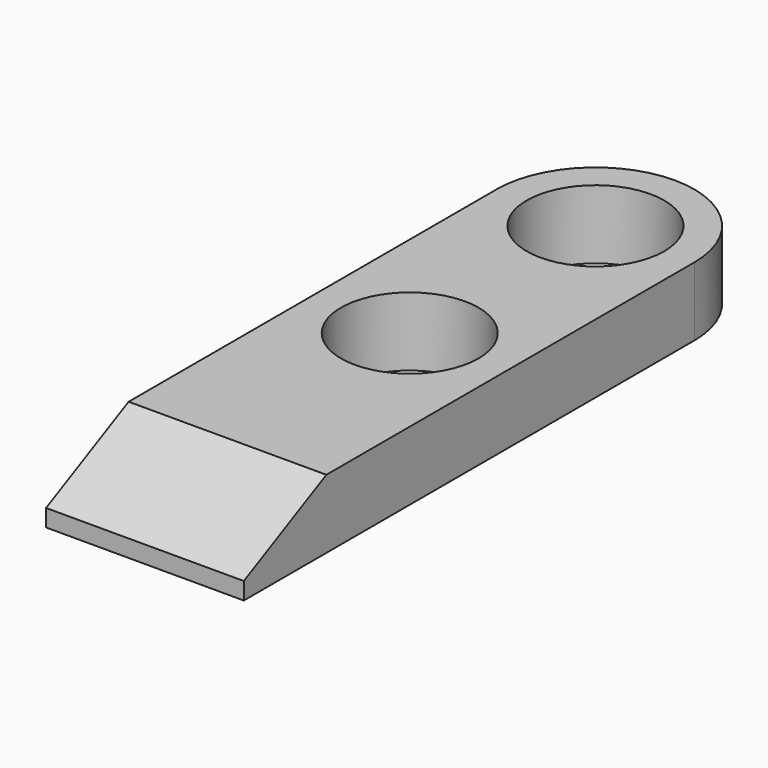
from build123d import *

# Parameters (mm, degrees)
F0_R     = 8
F1_DEPTH = 8
F3_DEPTH = 23.001


with BuildPart() as f1:
    # F0 (on Top) → F1 (new body)
    with BuildSketch(Plane.XY):
        with BuildLine():
            Line((-11.5, 27), (-11.5, -38.5))
            Line((-11.5, -38.5), (11.5, -38.5))
            Line((11.5, -38.5), (11.5, 27))
            ThreePointArc((11.5, 27), (0, 38.5), (-11.5, 27))
        make_face()
        Circle(F0_R, mode=Mode.SUBTRACT)
        with Locations((0, 27)):
            Circle(F0_R, mode=Mode.SUBTRACT)
    extrude(amount=F1_DEPTH)

    # F2 (on face) → F3 (cut, through all)
    with BuildSketch(Plane(origin=(-11.5, 0, 0), x_dir=(0, -1, 0), z_dir=(-1, 0, 0))):
        Polygon((26.5, 8), (38.5, 2), (38.5, 8), align=None)
    extrude(amount=-F3_DEPTH, mode=Mode.SUBTRACT)


solid = f1.part
